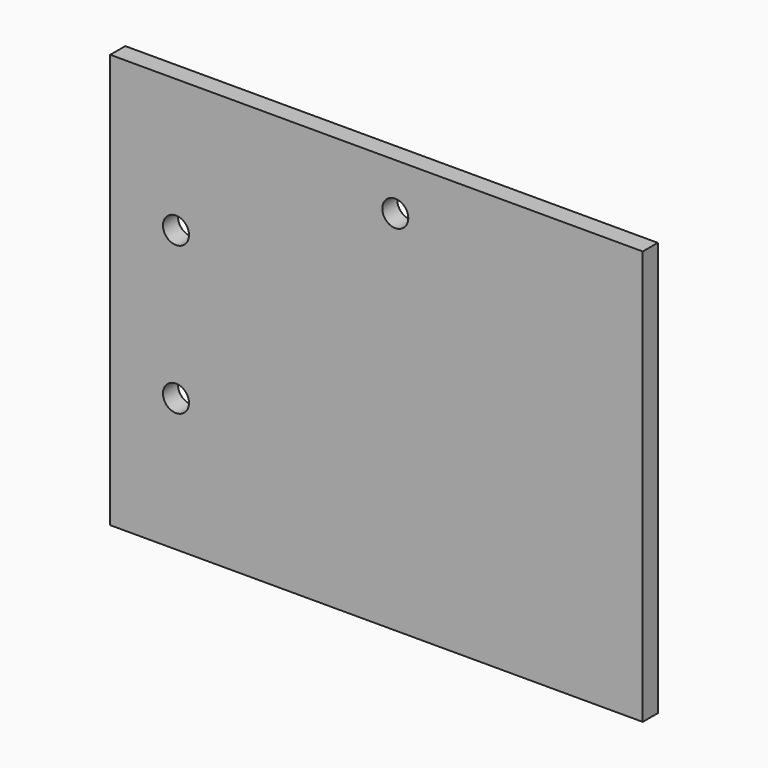
from build123d import *

# Parameters (mm, degrees)
F0_W     = 90
F0_H     = 3.175
F1_DEPTH = 70
F3_D     = 4.4


with BuildPart() as f1:
    # F0 (on Top) → F1 (new body)
    with BuildSketch(Plane.XY):
        Rectangle(F0_W, F0_H)
    extrude(amount=F1_DEPTH)

    # F3 (through all)
    with Locations(Plane(origin=(0, 1.5875, 0), x_dir=(-1, 0, 0), z_dir=(0, 1, 0))):
        with Locations((33.8875, 22.5), (33.8875, 47.5), (-3.175, 62.0625)):
            Hole(F3_D / 2)


solid = f1.part
